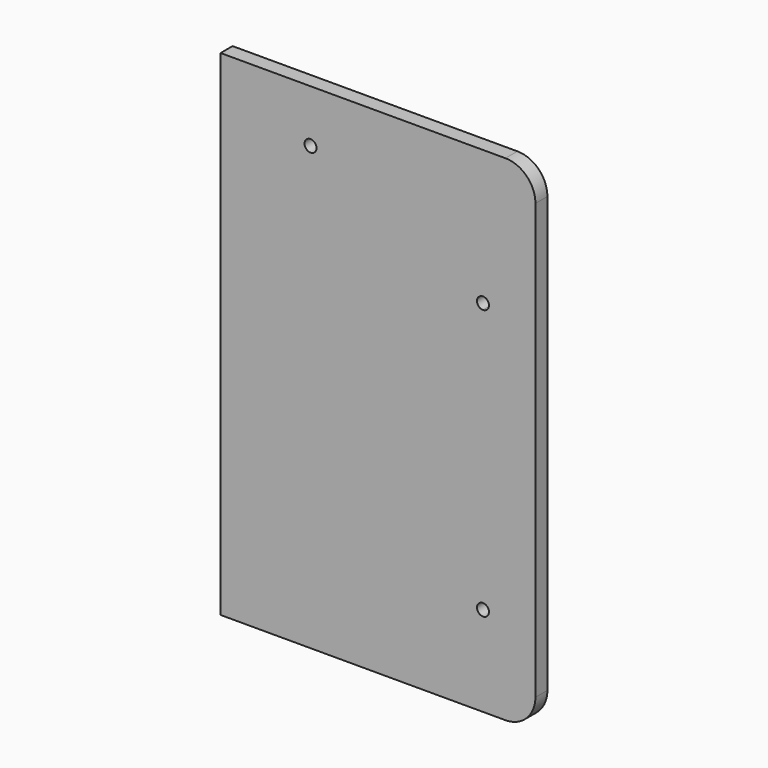
from build123d import *

# Parameters (mm, degrees)
F0_R     = 2
F1_DEPTH = 5


with BuildPart() as f1:
    # F0 (on Front) → F1 (new body)
    with BuildSketch(Plane.XZ):
        with BuildLine():
            Line((0, 165), (0, 0))
            Line((0, 0), (95, 0))
            ThreePointArc((95, 0), (102.071068, 2.928932), (105, 10))
            Line((105, 10), (105, 155))
            ThreePointArc((105, 155), (102.071068, 162.071068), (95, 165))
            Line((95, 165), (0, 165))
        make_face()
        with BuildLine():
            ThreePointArc((89.5, 30), (86.085786, 28.585786), (87.5, 32))
            ThreePointArc((87.5, 32), (88.914214, 31.414214), (89.5, 30))
        make_face(mode=Mode.SUBTRACT)
        with Locations((30, 147.5)):
            Circle(F0_R, mode=Mode.SUBTRACT)
        with BuildLine():
            ThreePointArc((87.5, 118), (86.085786, 121.414214), (89.5, 120))
            ThreePointArc((89.5, 120), (88.914214, 118.585786), (87.5, 118))
        make_face(mode=Mode.SUBTRACT)
    extrude(amount=F1_DEPTH)


solid = f1.part
